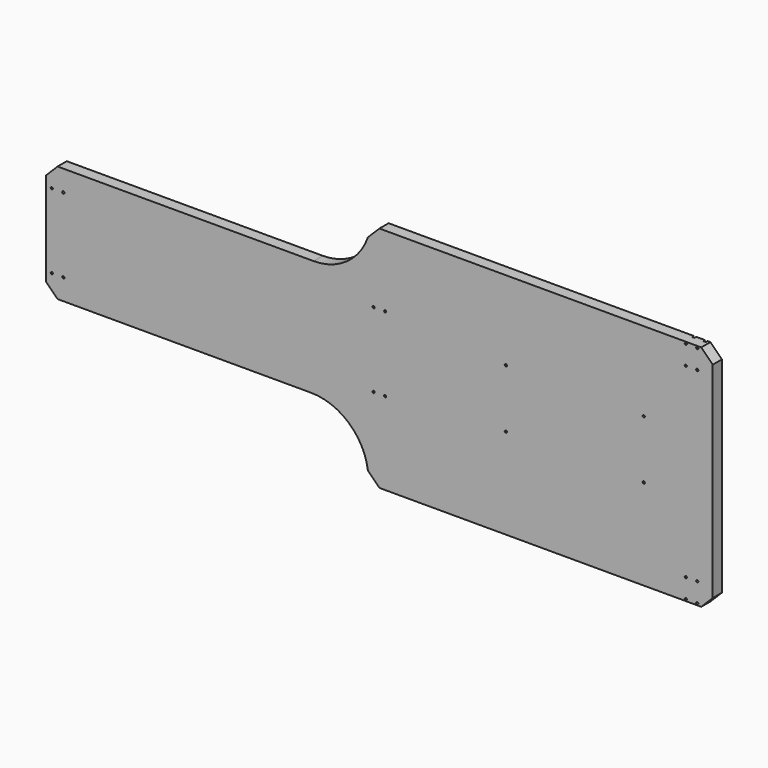
from build123d import *

# Parameters (mm, degrees)
F1_DEPTH       = 12.7
F3_D           = 4.826
F4_DEPTH       = 25.4
F7_D           = 4.826
F7_ON_F6_D     = 4.826
F9_D           = 4.826
F9_CBORE_D     = 9.4742
F9_CBORE_DEPTH = 5.08


with BuildPart() as f1:
    # F0 (on Front) → F1 (new body)
    with BuildSketch(Plane.XZ):
        with BuildLine():
            Line((-1447.8, 410.3624), (-1473.2, 384.9624))
            Line((-1473.2, 384.9624), (-1473.2, 382.9812))
            Line((-1473.2, 382.9812), (-1422.4, 382.9812))
            Line((-1422.4, 382.9812), (-1422.4, 344.8812))
            Line((-1422.4, 344.8812), (-762, 344.8812))
            Line((-762, 344.8812), (-723.9, 344.8812))
            Line((-723.9, 344.8812), (-711.2, 344.8812))
            Line((-711.2, 344.8812), (-711.2, 217.8812))
            Line((-711.2, 217.8812), (-723.9, 217.8812))
            Line((-723.9, 217.8812), (-762, 217.8812))
            Line((-762, 217.8812), (-1422.4, 217.8812))
            Line((-1422.4, 217.8812), (-1422.4, 179.7812))
            Line((-1422.4, 179.7812), (-1473.2, 179.7812))
            Line((-1473.2, 179.7812), (-1473.2, 177.8))
            Line((-1473.2, 177.8), (-1447.8, 152.4))
            Line((-1447.8, 152.4), (-887.9453407126, 152.4))
            ThreePointArc((-887.9453407126, 152.4), (-804.116072485, 120.8025879546), (-762, 41.7331305265))
            Line((-762, 41.7331305265), (-736.6, 16.3331305265))
            Line((-736.6, 16.3331305265), (-25.4, 16.3331305265))
            Line((-25.4, 16.3331305265), (0, 41.7331305265))
            Line((0, 41.7331305265), (0, 495.6292694735))
            Line((0, 495.6292694735), (-25.4, 521.0292694735))
            Line((-25.4, 521.0292694735), (-736.6, 521.0292694735))
            Line((-736.6, 521.0292694735), (-762, 495.6292694735))
            ThreePointArc((-762, 495.6292694735), (-808.3643419956, 433.8512711856), (-881.9472626468, 410.3624))
            Line((-881.9472626468, 410.3624), (-1447.8, 410.3624))
        make_face()
    extrude(amount=F1_DEPTH)

    # F3 (through all)
    with Locations(Plane.XZ.offset(12.7)):
        with Locations((-457.2, 415.7218), (-152.4, 415.7218), (-152.4, 134.3406), (-457.2, 134.3406)):
            Hole(F3_D / 2)

    # F0 (on Front) → F4 (join)
    with BuildSketch(Plane.XZ):
        with BuildLine():
            Line((-1447.8, 410.3624), (-1473.2, 384.9624))
            Line((-1473.2, 384.9624), (-1473.2, 382.9812))
            Line((-1473.2, 382.9812), (-1422.4, 382.9812))
            Line((-1422.4, 382.9812), (-1422.4, 344.8812))
            Line((-1422.4, 344.8812), (-762, 344.8812))
            Line((-762, 344.8812), (-723.9, 344.8812))
            Line((-723.9, 344.8812), (-711.2, 344.8812))
            Line((-711.2, 344.8812), (-711.2, 217.8812))
            Line((-711.2, 217.8812), (-723.9, 217.8812))
            Line((-723.9, 217.8812), (-762, 217.8812))
            Line((-762, 217.8812), (-1422.4, 217.8812))
            Line((-1422.4, 217.8812), (-1422.4, 179.7812))
            Line((-1422.4, 179.7812), (-1473.2, 179.7812))
            Line((-1473.2, 179.7812), (-1473.2, 177.8))
            Line((-1473.2, 177.8), (-1447.8, 152.4))
            Line((-1447.8, 152.4), (-887.9453407126, 152.4))
            ThreePointArc((-887.9453407126, 152.4), (-804.116072485, 120.8025879546), (-762, 41.7331305265))
            Line((-762, 41.7331305265), (-736.6, 16.3331305265))
            Line((-736.6, 16.3331305265), (-25.4, 16.3331305265))
            Line((-25.4, 16.3331305265), (0, 41.7331305265))
            Line((0, 41.7331305265), (0, 495.6292694735))
            Line((0, 495.6292694735), (-25.4, 521.0292694735))
            Line((-25.4, 521.0292694735), (-736.6, 521.0292694735))
            Line((-736.6, 521.0292694735), (-762, 495.6292694735))
            ThreePointArc((-762, 495.6292694735), (-808.3643419956, 433.8512711856), (-881.9472626468, 410.3624))
            Line((-881.9472626468, 410.3624), (-1447.8, 410.3624))
        make_face()
        Polygon((-1422.4, 382.9812), (-1473.2, 382.9812), (-1473.2, 344.8812), (-1460.5, 344.8812), (-1435.1, 344.8812), (-1422.4, 344.8812), align=None)
        Polygon((-1460.5, 344.8812), (-1473.2, 344.8812), (-1473.2, 281.3812), (-1473.2, 217.8812), (-1460.5, 217.8812), (-1435.1, 217.8812), (-1422.4, 217.8812), (-762, 217.8812), (-723.9, 217.8812), (-711.2, 217.8812), (-711.2, 344.8812), (-723.9, 344.8812), (-762, 344.8812), (-1422.4, 344.8812), (-1435.1, 344.8812), align=None)
        Polygon((-1460.5, 217.8812), (-1473.2, 217.8812), (-1473.2, 179.7812), (-1422.4, 179.7812), (-1422.4, 217.8812), (-1435.1, 217.8812), align=None)
    extrude(amount=F4_DEPTH)

    # F7 (through all)
    with Locations(Plane.XZ.offset(25.4)):
        with Locations((-1460.5, 363.9312), (-1435.1, 363.9312), (-1435.1, 198.8312), (-1460.5, 198.8312), (-749.3, 198.8312), (-723.9, 198.8312), (-749.3, 363.9312), (-723.9, 363.9312)):
            Hole(F7_D / 2)

    # F7 on F6 (through all)
    with Locations(Plane.XZ.offset(25.4)):
        with Locations((-457.2, 345.8718), (-152.4, 345.8718), (-152.4, 216.8906), (-457.2, 216.8906)):
            Hole(F7_ON_F6_D / 2)

    # F9 (through all)
    with Locations(Plane(origin=(0, 0, 0), x_dir=(1, 0, 0), z_dir=(0, 1, 0))):
        with Locations((-34.1376, -63.1199305265), (-59.5122, -63.1199305265), (-34.1376, -20.3463305265), (-59.5122, -20.3463305265), (-59.5122, -517.0160694735), (-34.1376, -517.0160694735), (-34.1376, -474.2424694735), (-59.5122, -474.2424694735)):
            CounterBoreHole(F9_D / 2, F9_CBORE_D / 2, F9_CBORE_DEPTH)


solid = f1.part
